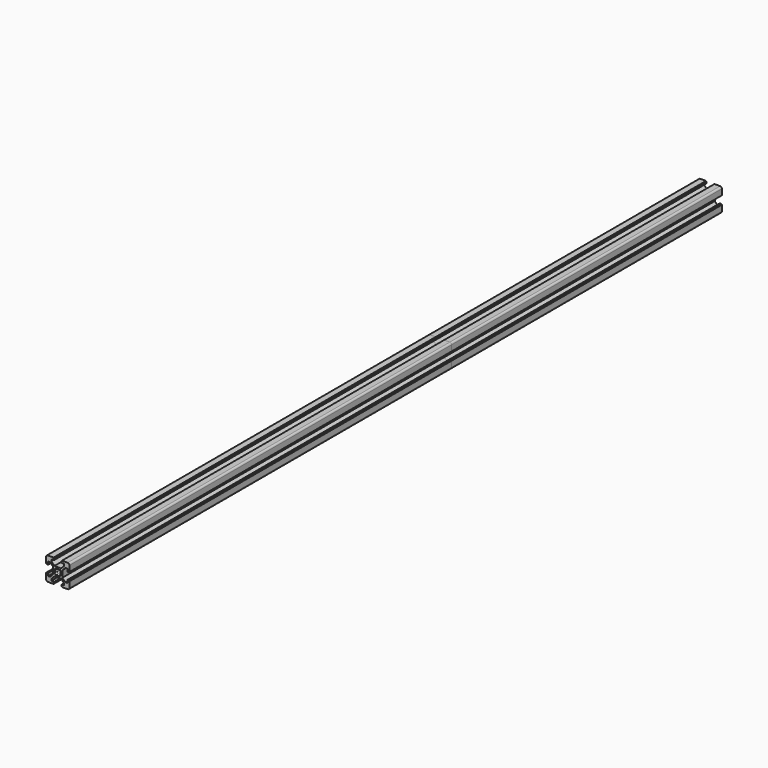
from build123d import *

# Parameters (mm, degrees)
F1_DEPTH = 460
F2_DEPTH = 700
F3_DEPTH = 290


with BuildPart() as f1:
    # F0 (on Front) → F1 (new body)
    with BuildSketch(Plane.XZ):
        with BuildLine():
            Line((-6.56066, 5.5), (-3.9, 2.83934))
            Line((-3.9, 2.83934), (-3.9, -2.83934))
            Line((-3.9, -2.83934), (-6.56066, -5.5))
            Line((-6.56066, -5.5), (-8.2, -5.5))
            Line((-8.2, -5.5), (-8.2, -3.1))
            Line((-8.2, -3.1), (-9.5, -3.1))
            Line((-9.5, -3.1), (-9.5, -3.6))
            Line((-9.5, -3.6), (-10, -3.6))
            Line((-10, -3.6), (-10, -8.5))
            ThreePointArc((-10, -8.5), (-9.56066, -9.56066), (-8.5, -10))
            Line((-8.5, -10), (-3.6, -10))
            Line((-3.6, -10), (-3.6, -9.5))
            Line((-3.6, -9.5), (-3.1, -9.5))
            Line((-3.1, -9.5), (-3.1, -8.2))
            Line((-3.1, -8.2), (-5.5, -8.2))
            Line((-5.5, -8.2), (-5.5, -6.56066))
            Line((-5.5, -6.56066), (-2.83934, -3.9))
            Line((-2.83934, -3.9), (2.83934, -3.9))
            Line((2.83934, -3.9), (5.5, -6.56066))
            Line((5.5, -6.56066), (5.5, -8.2))
            Line((5.5, -8.2), (3.1, -8.2))
            Line((3.1, -8.2), (3.1, -9.5))
            Line((3.1, -9.5), (3.6, -9.5))
            Line((3.6, -9.5), (3.6, -10))
            Line((3.6, -10), (8.5, -10))
            ThreePointArc((8.5, -10), (9.56066, -9.56066), (10, -8.5))
            Line((10, -8.5), (10, -3.6))
            Line((10, -3.6), (9.5, -3.6))
            Line((9.5, -3.6), (9.5, -3.1))
            Line((9.5, -3.1), (8.2, -3.1))
            Line((8.2, -3.1), (8.2, -5.5))
            Line((8.2, -5.5), (6.56066, -5.5))
            Line((6.56066, -5.5), (3.9, -2.83934))
            Line((3.9, -2.83934), (3.9, 2.83934))
            Line((3.9, 2.83934), (6.56066, 5.5))
            Line((6.56066, 5.5), (8.2, 5.5))
            Line((8.2, 5.5), (8.2, 3.1))
            Line((8.2, 3.1), (9.5, 3.1))
            Line((9.5, 3.1), (9.5, 3.6))
            Line((9.5, 3.6), (10, 3.6))
            Line((10, 3.6), (10, 8.5))
            ThreePointArc((10, 8.5), (9.56066, 9.56066), (8.5, 10))
            Line((8.5, 10), (3.6, 10))
            Line((3.6, 10), (3.6, 9.5))
            Line((3.6, 9.5), (3.1, 9.5))
            Line((3.1, 9.5), (3.1, 8.2))
            Line((3.1, 8.2), (5.5, 8.2))
            Line((5.5, 8.2), (5.5, 6.56066))
            Line((5.5, 6.56066), (2.83934, 3.9))
            Line((2.83934, 3.9), (-2.83934, 3.9))
            Line((-2.83934, 3.9), (-5.5, 6.56066))
            Line((-5.5, 6.56066), (-5.5, 8.2))
            Line((-5.5, 8.2), (-3.1, 8.2))
            Line((-3.1, 8.2), (-3.1, 9.5))
            Line((-3.1, 9.5), (-3.6, 9.5))
            Line((-3.6, 9.5), (-3.6, 10))
            Line((-3.6, 10), (-8.5, 10))
            ThreePointArc((-8.5, 10), (-9.56066, 9.56066), (-10, 8.5))
            Line((-10, 8.5), (-10, 3.6))
            Line((-10, 3.6), (-9.5, 3.6))
            Line((-9.5, 3.6), (-9.5, 3.1))
            Line((-9.5, 3.1), (-8.2, 3.1))
            Line((-8.2, 3.1), (-8.2, 5.5))
            Line((-8.2, 5.5), (-6.56066, 5.5))
        make_face()
        with BuildLine():
            ThreePointArc((-2.216672, -1.156012), (-2.5, 0), (-2.216672, 1.156012))
            Line((-2.216672, 1.156012), (-2.65165, 1.59099))
            Line((-2.65165, 1.59099), (-1.59099, 2.65165))
            Line((-1.59099, 2.65165), (-1.156012, 2.216672))
            ThreePointArc((-1.156012, 2.216672), (0, 2.5), (1.156012, 2.216672))
            Line((1.156012, 2.216672), (1.59099, 2.65165))
            Line((1.59099, 2.65165), (2.65165, 1.59099))
            Line((2.65165, 1.59099), (2.216672, 1.156012))
            ThreePointArc((2.216672, 1.156012), (2.5, 0), (2.216672, -1.156012))
            Line((2.216672, -1.156012), (2.65165, -1.59099))
            Line((2.65165, -1.59099), (1.59099, -2.65165))
            Line((1.59099, -2.65165), (1.156012, -2.216672))
            ThreePointArc((1.156012, -2.216672), (0, -2.5), (-1.156012, -2.216672))
            Line((-1.156012, -2.216672), (-1.59099, -2.65165))
            Line((-1.59099, -2.65165), (-2.65165, -1.59099))
            Line((-2.65165, -1.59099), (-2.216672, -1.156012))
        make_face(mode=Mode.SUBTRACT)
    extrude(amount=F1_DEPTH)


with BuildPart() as f2:
    # F0 (on Front) → F2 (new body)
    with BuildSketch(Plane.XZ):
        with BuildLine():
            Line((-6.56066, 5.5), (-3.9, 2.83934))
            Line((-3.9, 2.83934), (-3.9, -2.83934))
            Line((-3.9, -2.83934), (-6.56066, -5.5))
            Line((-6.56066, -5.5), (-8.2, -5.5))
            Line((-8.2, -5.5), (-8.2, -3.1))
            Line((-8.2, -3.1), (-9.5, -3.1))
            Line((-9.5, -3.1), (-9.5, -3.6))
            Line((-9.5, -3.6), (-10, -3.6))
            Line((-10, -3.6), (-10, -8.5))
            ThreePointArc((-10, -8.5), (-9.56066, -9.56066), (-8.5, -10))
            Line((-8.5, -10), (-3.6, -10))
            Line((-3.6, -10), (-3.6, -9.5))
            Line((-3.6, -9.5), (-3.1, -9.5))
            Line((-3.1, -9.5), (-3.1, -8.2))
            Line((-3.1, -8.2), (-5.5, -8.2))
            Line((-5.5, -8.2), (-5.5, -6.56066))
            Line((-5.5, -6.56066), (-2.83934, -3.9))
            Line((-2.83934, -3.9), (2.83934, -3.9))
            Line((2.83934, -3.9), (5.5, -6.56066))
            Line((5.5, -6.56066), (5.5, -8.2))
            Line((5.5, -8.2), (3.1, -8.2))
            Line((3.1, -8.2), (3.1, -9.5))
            Line((3.1, -9.5), (3.6, -9.5))
            Line((3.6, -9.5), (3.6, -10))
            Line((3.6, -10), (8.5, -10))
            ThreePointArc((8.5, -10), (9.56066, -9.56066), (10, -8.5))
            Line((10, -8.5), (10, -3.6))
            Line((10, -3.6), (9.5, -3.6))
            Line((9.5, -3.6), (9.5, -3.1))
            Line((9.5, -3.1), (8.2, -3.1))
            Line((8.2, -3.1), (8.2, -5.5))
            Line((8.2, -5.5), (6.56066, -5.5))
            Line((6.56066, -5.5), (3.9, -2.83934))
            Line((3.9, -2.83934), (3.9, 2.83934))
            Line((3.9, 2.83934), (6.56066, 5.5))
            Line((6.56066, 5.5), (8.2, 5.5))
            Line((8.2, 5.5), (8.2, 3.1))
            Line((8.2, 3.1), (9.5, 3.1))
            Line((9.5, 3.1), (9.5, 3.6))
            Line((9.5, 3.6), (10, 3.6))
            Line((10, 3.6), (10, 8.5))
            ThreePointArc((10, 8.5), (9.56066, 9.56066), (8.5, 10))
            Line((8.5, 10), (3.6, 10))
            Line((3.6, 10), (3.6, 9.5))
            Line((3.6, 9.5), (3.1, 9.5))
            Line((3.1, 9.5), (3.1, 8.2))
            Line((3.1, 8.2), (5.5, 8.2))
            Line((5.5, 8.2), (5.5, 6.56066))
            Line((5.5, 6.56066), (2.83934, 3.9))
            Line((2.83934, 3.9), (-2.83934, 3.9))
            Line((-2.83934, 3.9), (-5.5, 6.56066))
            Line((-5.5, 6.56066), (-5.5, 8.2))
            Line((-5.5, 8.2), (-3.1, 8.2))
            Line((-3.1, 8.2), (-3.1, 9.5))
            Line((-3.1, 9.5), (-3.6, 9.5))
            Line((-3.6, 9.5), (-3.6, 10))
            Line((-3.6, 10), (-8.5, 10))
            ThreePointArc((-8.5, 10), (-9.56066, 9.56066), (-10, 8.5))
            Line((-10, 8.5), (-10, 3.6))
            Line((-10, 3.6), (-9.5, 3.6))
            Line((-9.5, 3.6), (-9.5, 3.1))
            Line((-9.5, 3.1), (-8.2, 3.1))
            Line((-8.2, 3.1), (-8.2, 5.5))
            Line((-8.2, 5.5), (-6.56066, 5.5))
        make_face()
        with BuildLine():
            ThreePointArc((-2.216672, -1.156012), (-2.5, 0), (-2.216672, 1.156012))
            Line((-2.216672, 1.156012), (-2.65165, 1.59099))
            Line((-2.65165, 1.59099), (-1.59099, 2.65165))
            Line((-1.59099, 2.65165), (-1.156012, 2.216672))
            ThreePointArc((-1.156012, 2.216672), (0, 2.5), (1.156012, 2.216672))
            Line((1.156012, 2.216672), (1.59099, 2.65165))
            Line((1.59099, 2.65165), (2.65165, 1.59099))
            Line((2.65165, 1.59099), (2.216672, 1.156012))
            ThreePointArc((2.216672, 1.156012), (2.5, 0), (2.216672, -1.156012))
            Line((2.216672, -1.156012), (2.65165, -1.59099))
            Line((2.65165, -1.59099), (1.59099, -2.65165))
            Line((1.59099, -2.65165), (1.156012, -2.216672))
            ThreePointArc((1.156012, -2.216672), (0, -2.5), (-1.156012, -2.216672))
            Line((-1.156012, -2.216672), (-1.59099, -2.65165))
            Line((-1.59099, -2.65165), (-2.65165, -1.59099))
            Line((-2.65165, -1.59099), (-2.216672, -1.156012))
        make_face(mode=Mode.SUBTRACT)
    extrude(amount=F2_DEPTH)


with BuildPart() as f3:
    # F0 (on Front) → F3 (new body)
    with BuildSketch(Plane.XZ):
        with BuildLine():
            Line((-6.56066, 5.5), (-3.9, 2.83934))
            Line((-3.9, 2.83934), (-3.9, -2.83934))
            Line((-3.9, -2.83934), (-6.56066, -5.5))
            Line((-6.56066, -5.5), (-8.2, -5.5))
            Line((-8.2, -5.5), (-8.2, -3.1))
            Line((-8.2, -3.1), (-9.5, -3.1))
            Line((-9.5, -3.1), (-9.5, -3.6))
            Line((-9.5, -3.6), (-10, -3.6))
            Line((-10, -3.6), (-10, -8.5))
            ThreePointArc((-10, -8.5), (-9.56066, -9.56066), (-8.5, -10))
            Line((-8.5, -10), (-3.6, -10))
            Line((-3.6, -10), (-3.6, -9.5))
            Line((-3.6, -9.5), (-3.1, -9.5))
            Line((-3.1, -9.5), (-3.1, -8.2))
            Line((-3.1, -8.2), (-5.5, -8.2))
            Line((-5.5, -8.2), (-5.5, -6.56066))
            Line((-5.5, -6.56066), (-2.83934, -3.9))
            Line((-2.83934, -3.9), (2.83934, -3.9))
            Line((2.83934, -3.9), (5.5, -6.56066))
            Line((5.5, -6.56066), (5.5, -8.2))
            Line((5.5, -8.2), (3.1, -8.2))
            Line((3.1, -8.2), (3.1, -9.5))
            Line((3.1, -9.5), (3.6, -9.5))
            Line((3.6, -9.5), (3.6, -10))
            Line((3.6, -10), (8.5, -10))
            ThreePointArc((8.5, -10), (9.56066, -9.56066), (10, -8.5))
            Line((10, -8.5), (10, -3.6))
            Line((10, -3.6), (9.5, -3.6))
            Line((9.5, -3.6), (9.5, -3.1))
            Line((9.5, -3.1), (8.2, -3.1))
            Line((8.2, -3.1), (8.2, -5.5))
            Line((8.2, -5.5), (6.56066, -5.5))
            Line((6.56066, -5.5), (3.9, -2.83934))
            Line((3.9, -2.83934), (3.9, 2.83934))
            Line((3.9, 2.83934), (6.56066, 5.5))
            Line((6.56066, 5.5), (8.2, 5.5))
            Line((8.2, 5.5), (8.2, 3.1))
            Line((8.2, 3.1), (9.5, 3.1))
            Line((9.5, 3.1), (9.5, 3.6))
            Line((9.5, 3.6), (10, 3.6))
            Line((10, 3.6), (10, 8.5))
            ThreePointArc((10, 8.5), (9.56066, 9.56066), (8.5, 10))
            Line((8.5, 10), (3.6, 10))
            Line((3.6, 10), (3.6, 9.5))
            Line((3.6, 9.5), (3.1, 9.5))
            Line((3.1, 9.5), (3.1, 8.2))
            Line((3.1, 8.2), (5.5, 8.2))
            Line((5.5, 8.2), (5.5, 6.56066))
            Line((5.5, 6.56066), (2.83934, 3.9))
            Line((2.83934, 3.9), (-2.83934, 3.9))
            Line((-2.83934, 3.9), (-5.5, 6.56066))
            Line((-5.5, 6.56066), (-5.5, 8.2))
            Line((-5.5, 8.2), (-3.1, 8.2))
            Line((-3.1, 8.2), (-3.1, 9.5))
            Line((-3.1, 9.5), (-3.6, 9.5))
            Line((-3.6, 9.5), (-3.6, 10))
            Line((-3.6, 10), (-8.5, 10))
            ThreePointArc((-8.5, 10), (-9.56066, 9.56066), (-10, 8.5))
            Line((-10, 8.5), (-10, 3.6))
            Line((-10, 3.6), (-9.5, 3.6))
            Line((-9.5, 3.6), (-9.5, 3.1))
            Line((-9.5, 3.1), (-8.2, 3.1))
            Line((-8.2, 3.1), (-8.2, 5.5))
            Line((-8.2, 5.5), (-6.56066, 5.5))
        make_face()
        with BuildLine():
            ThreePointArc((-2.216672, -1.156012), (-2.5, 0), (-2.216672, 1.156012))
            Line((-2.216672, 1.156012), (-2.65165, 1.59099))
            Line((-2.65165, 1.59099), (-1.59099, 2.65165))
            Line((-1.59099, 2.65165), (-1.156012, 2.216672))
            ThreePointArc((-1.156012, 2.216672), (0, 2.5), (1.156012, 2.216672))
            Line((1.156012, 2.216672), (1.59099, 2.65165))
            Line((1.59099, 2.65165), (2.65165, 1.59099))
            Line((2.65165, 1.59099), (2.216672, 1.156012))
            ThreePointArc((2.216672, 1.156012), (2.5, 0), (2.216672, -1.156012))
            Line((2.216672, -1.156012), (2.65165, -1.59099))
            Line((2.65165, -1.59099), (1.59099, -2.65165))
            Line((1.59099, -2.65165), (1.156012, -2.216672))
            ThreePointArc((1.156012, -2.216672), (0, -2.5), (-1.156012, -2.216672))
            Line((-1.156012, -2.216672), (-1.59099, -2.65165))
            Line((-1.59099, -2.65165), (-2.65165, -1.59099))
            Line((-2.65165, -1.59099), (-2.216672, -1.156012))
        make_face(mode=Mode.SUBTRACT)
    extrude(amount=F3_DEPTH)


solid = Compound([f1.part, f2.part, f3.part])
